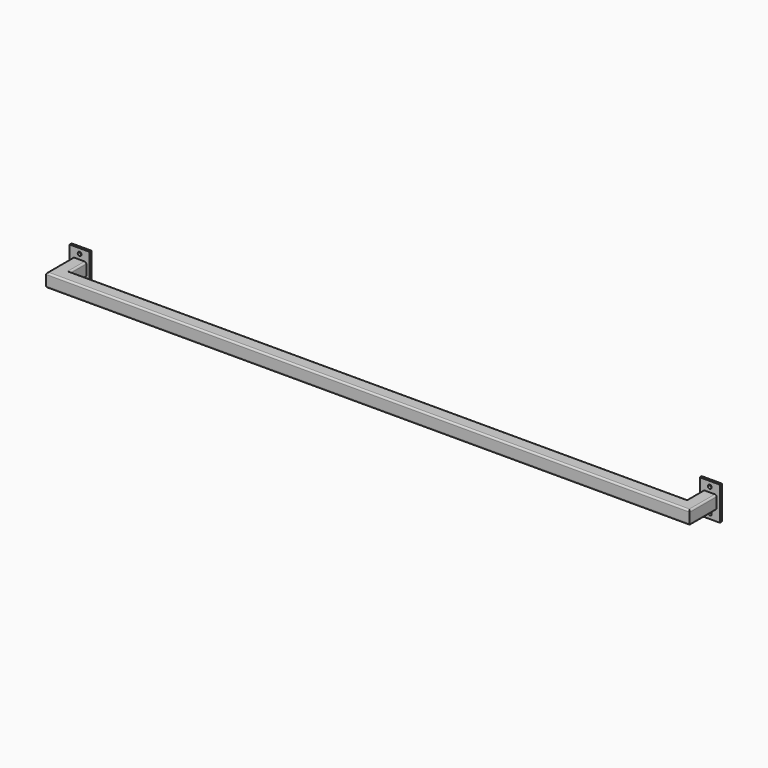
from build123d import *

# Parameters (mm, degrees)
F0_W     = 76.2
F0_H     = 127
F1_DEPTH = 9.525
F2_R     = 7.14375
F3_DEPTH = 25.4


with BuildPart() as f1:
    # F0 (on Front) → F1 (new body)
    with BuildSketch(Plane.XZ):
        with Locations((-1193.8, 0)):
            Rectangle(F0_W, F0_H)
        with BuildLine():
            ThreePointArc((-1219.2, 19.05), (-1217.3401280605, 23.5401280605), (-1212.85, 25.4))
            Line((-1212.85, 25.4), (-1174.75, 25.4))
            ThreePointArc((-1174.75, 25.4), (-1170.2598719395, 23.5401280605), (-1168.4, 19.05))
            Line((-1168.4, 19.05), (-1168.4, -19.05))
            ThreePointArc((-1168.4, -19.05), (-1170.2598719395, -23.5401280605), (-1174.75, -25.4))
            Line((-1174.75, -25.4), (-1212.85, -25.4))
            ThreePointArc((-1212.85, -25.4), (-1217.3401280605, -23.5401280605), (-1219.2, -19.05))
            Line((-1219.2, -19.05), (-1219.2, 19.05))
        make_face(mode=Mode.SUBTRACT)
        with BuildLine():
            Line((-1174.75, 25.4), (-1212.85, 25.4))
            ThreePointArc((-1212.85, 25.4), (-1217.3401280605, 23.5401280605), (-1219.2, 19.05))
            Line((-1219.2, 19.05), (-1219.2, -19.05))
            ThreePointArc((-1219.2, -19.05), (-1217.3401280605, -23.5401280605), (-1212.85, -25.4))
            Line((-1212.85, -25.4), (-1174.75, -25.4))
            ThreePointArc((-1174.75, -25.4), (-1170.2598719395, -23.5401280605), (-1168.4, -19.05))
            Line((-1168.4, -19.05), (-1168.4, 19.05))
            ThreePointArc((-1168.4, 19.05), (-1170.2598719395, 23.5401280605), (-1174.75, 25.4))
        make_face()
    extrude(amount=F1_DEPTH)

    # F2 (on face) → F3 (cut)
    with BuildSketch(Plane.XZ.offset(9.525)):
        with Locations((-1193.8, 44.45)):
            Circle(F2_R)
        with Locations((-1193.8, -44.45)):
            Circle(F2_R)
    extrude(amount=-F3_DEPTH, mode=Mode.SUBTRACT)


with BuildPart() as f4_1:
    # F4: instance of F1
    add(f1.part.mirror(Plane.YZ))


with BuildPart() as f7:
    # F7: sweep along a path in F6
    with BuildLine(Plane.XY) as f7_path:
        Line((-1193.8, -9.525), (-1193.8, -111.125))
        Line((-1193.8, -111.125), (1193.8, -111.125))
        Line((1193.8, -111.125), (1193.8, -9.525))
    # F5 (on face) → F7 (sweep)
    with BuildSketch(Plane.XZ.offset(9.525)):
        with BuildLine():
            Line((-1174.75, 25.4), (-1212.85, 25.4))
            ThreePointArc((-1212.85, 25.4), (-1217.3401280605, 23.5401280605), (-1219.2, 19.05))
            Line((-1219.2, 19.05), (-1219.2, -19.05))
            ThreePointArc((-1219.2, -19.05), (-1217.3401280605, -23.5401280605), (-1212.85, -25.4))
            Line((-1212.85, -25.4), (-1174.75, -25.4))
            ThreePointArc((-1174.75, -25.4), (-1170.2598719395, -23.5401280605), (-1168.4, -19.05))
            Line((-1168.4, -19.05), (-1168.4, 19.05))
            ThreePointArc((-1168.4, 19.05), (-1170.2598719395, 23.5401280605), (-1174.75, 25.4))
        make_face()
    sweep(path=f7_path.line, transition=Transition.RIGHT)


solid = Compound([f1.part, f4_1.part, f7.part])
